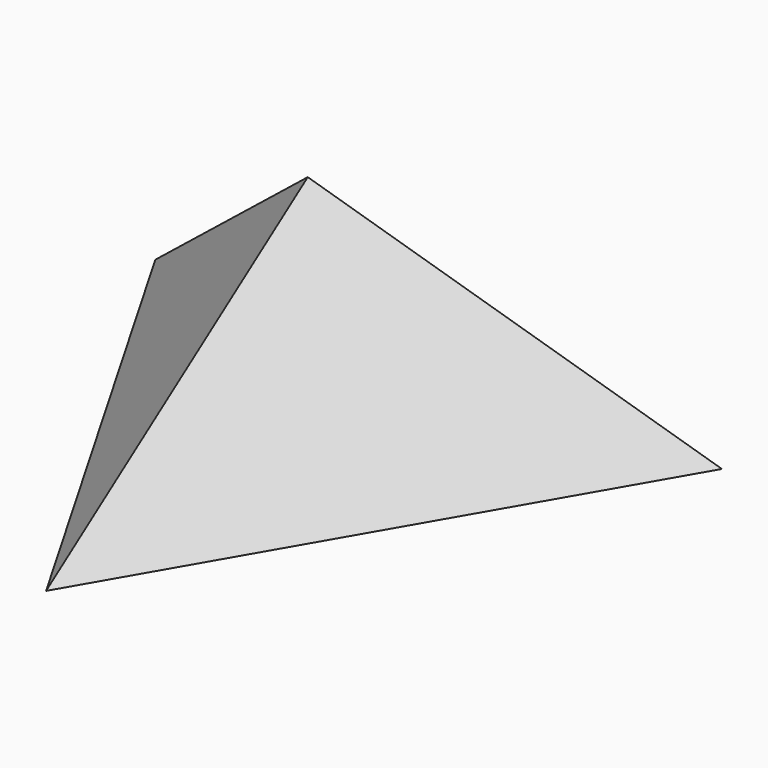
from build123d import *

# Parameters (mm, degrees)
F3_T = -19.05


with BuildPart() as f2:
    # F0 (on Top) → F2 section 0
    with BuildSketch(Plane.XY, mode=Mode.PRIVATE) as f2_s0:
        Polygon((152.4, 87.988181), (-152.4, 87.988181), (0, -175.976362), align=None)
    loft([f2_s0.sketch, Vertex(0, 0, 124.4346)])

    # F3
    f3_openings = [f2.faces().sort_by_distance(p)[0] for p in [
        (0, 0, 0),
    ]]
    offset(amount=F3_T, openings=f3_openings)


solid = f2.part
